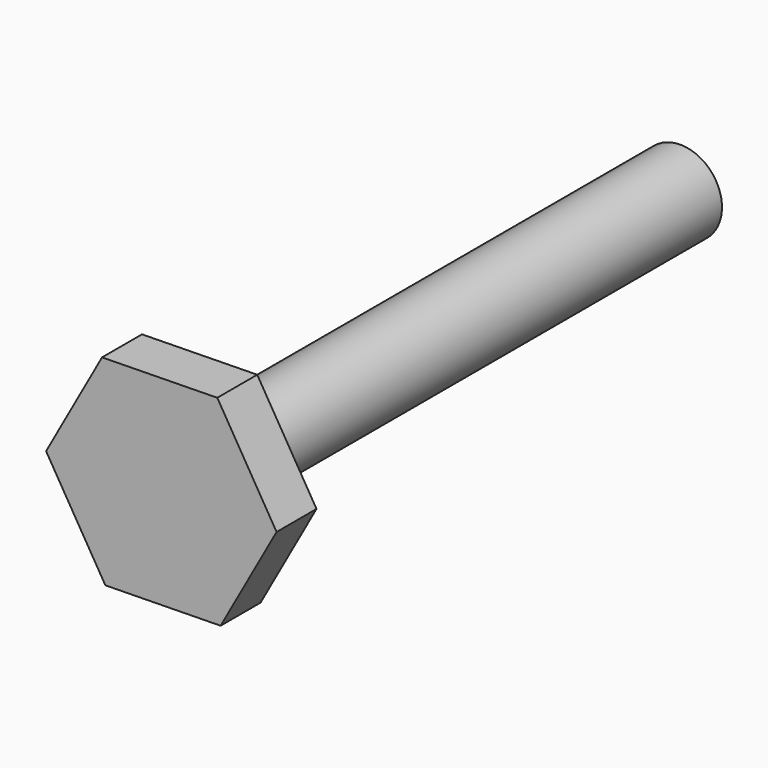
from build123d import *

# Parameters (mm, degrees)
F1_DEPTH = 3
F2_R     = 2.5
F3_DEPTH = 36


with BuildPart() as f1:
    # F0 (on Front) → F1 (new body)
    with BuildSketch(Plane.XZ):
        Polygon((-3.562627, 5.942027), (-6.92726, -0.114312), (-3.364633, -6.056339), (3.562627, -5.942027), (6.92726, 0.114312), (3.364633, 6.056339), align=None)
    extrude(amount=F1_DEPTH)

    # F2 (on face) → F3 (join)
    with BuildSketch(Plane(origin=(0, 0, 0), x_dir=(-1, 0, 0), z_dir=(0, 1, 0))):
        Circle(F2_R)
    extrude(amount=F3_DEPTH)


solid = f1.part
